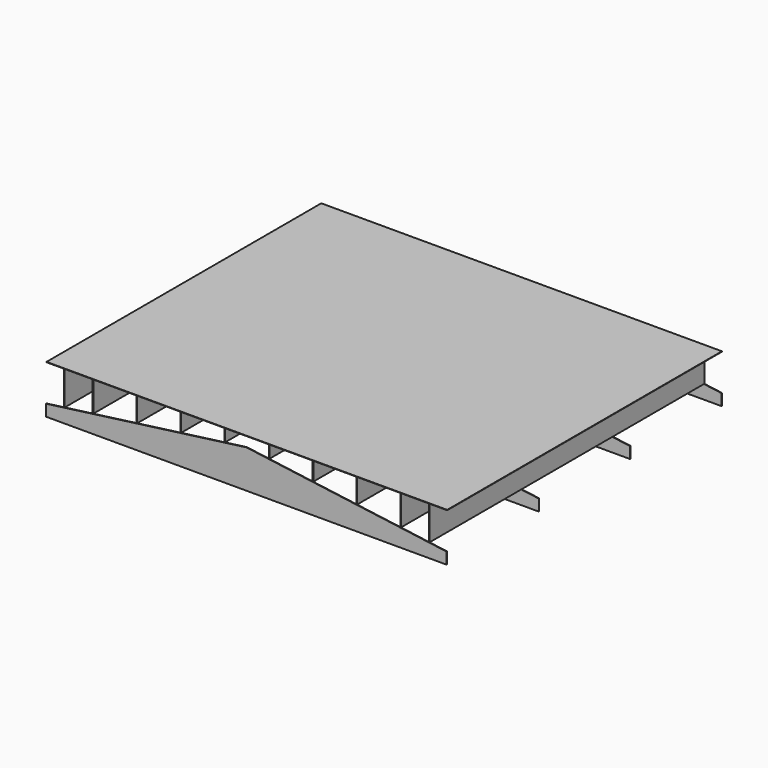
from build123d import *

# Parameters (mm, degrees)
F1_DEPTH  = 3
F3_W      = 3
F3_H      = 177.7333333333
F3_H_2    = 157.7333333333
F3_H_3    = 127.0666666667
F3_H_4    = 96.4
F3_H_5    = 65.7333333333
F4_DEPTH  = 1800
F7_DEPTH  = 3
F10_DEPTH = 3
F11_W     = 2100
F11_H     = 1800
F12_DEPTH = 2
F14_DEPTH = 3


with BuildPart() as f1:
    # F0 (on Front) → F1 (new body)
    with BuildSketch(Plane.XZ):
        Polygon((-1050, -314.938241453), (0, -314.938241453), (1050, -314.938241453), (1050, -254.938241453), (958, -242.6715747864), (955, -242.2715747864), (808, -222.6715747864), (805, -222.2715747864), (578, -192.0049081197), (575, -191.6049081197), (348, -161.338241453), (345, -160.938241453), (118, -130.6715747864), (115, -130.2715747864), (0, -114.938241453), (-115, -130.2715747864), (-118, -130.6715747864), (-345, -160.938241453), (-348, -161.338241453), (-575, -191.6049081197), (-578, -192.0049081197), (-805, -222.2715747864), (-808, -222.6715747864), (-955, -242.2715747864), (-958, -242.6715747864), (-1050, -254.938241453), align=None)
        Polygon((-958, -64.938241453), (-958, -242.6715747864), (-955, -242.2715747864), (-955, -64.938241453), align=None)
        Polygon((955, -242.2715747864), (958, -242.6715747864), (958, -64.938241453), (955, -64.938241453), align=None)
        Polygon((-808, -64.938241453), (-808, -222.6715747864), (-805, -222.2715747864), (-805, -64.938241453), align=None)
        Polygon((805, -222.2715747864), (808, -222.6715747864), (808, -64.938241453), (805, -64.938241453), align=None)
        Polygon((-578, -64.938241453), (-578, -192.0049081197), (-575, -191.6049081197), (-575, -64.938241453), align=None)
        Polygon((575, -191.6049081197), (578, -192.0049081197), (578, -64.938241453), (575, -64.938241453), align=None)
        Polygon((-348, -64.938241453), (-348, -161.338241453), (-345, -160.938241453), (-345, -64.938241453), align=None)
        Polygon((345, -160.938241453), (348, -161.338241453), (348, -64.938241453), (345, -64.938241453), align=None)
        Polygon((-118, -64.938241453), (-118, -130.6715747864), (-115, -130.2715747864), (-115, -64.938241453), align=None)
        Polygon((115, -130.2715747864), (118, -130.6715747864), (118, -64.938241453), (115, -64.938241453), align=None)
    extrude(amount=F1_DEPTH)

    # F3 (on offset) → F4 (join)
    with BuildSketch(Plane.XZ.offset(603)):
        with Locations((-956.5, -153.8049081197)):
            Rectangle(F3_W, F3_H)
        with Locations((-806.5, -143.8049081197)):
            Rectangle(F3_W, F3_H_2)
        with Locations((-576.5, -128.4715747864)):
            Rectangle(F3_W, F3_H_3)
        with Locations((-346.5, -113.138241453)):
            Rectangle(F3_W, F3_H_4)
        with Locations((-116.5, -97.8049081197)):
            Rectangle(F3_W, F3_H_5)
        with Locations((346.5, -113.138241453)):
            Rectangle(F3_W, F3_H_4)
        with Locations((576.5, -128.4715747864)):
            Rectangle(F3_W, F3_H_3)
        with Locations((806.5, -143.8049081197)):
            Rectangle(F3_W, F3_H_2)
        with Locations((116.5, -97.8049081197)):
            Rectangle(F3_W, F3_H_5)
        with Locations((956.5, -153.8049081197)):
            Rectangle(F3_W, F3_H)
    extrude(amount=-F4_DEPTH)

    # F6 (on offset) → F7 (join)
    with BuildSketch(Plane.XZ.offset(-597)):
        Polygon((1050, -254.938241453), (0, -116.9179081917), (-1050, -254.938241453), (-1050, -314.938241453), (0, -314.938241453), (1050, -314.938241453), align=None)
    extrude(amount=F7_DEPTH)

    # F9 (on offset) → F10 (join)
    with BuildSketch(Plane.XZ.offset(-1197)):
        Polygon((1050, -254.938241453), (0, -114.938241453), (-1050, -254.938241453), (-1050, -314.938241453), (0, -314.938241453), (1050, -314.938241453), align=None)
    extrude(amount=F10_DEPTH)

    # F11 (on face) → F12 (join)
    with BuildSketch(Plane.XY.offset(-64.938241453)):
        with Locations((0, 297)):
            Rectangle(F11_W, F11_H)
    extrude(amount=F12_DEPTH)

    # F13 (on offset) → F14 (join)
    with BuildSketch(Plane.XZ.offset(603)):
        Polygon((1050, -254.938241453), (0, -114.938241453), (-1050, -254.938241453), (-1050, -314.938241453), (0, -314.938241453), (1050, -314.938241453), align=None)
    extrude(amount=F14_DEPTH)


solid = f1.part
